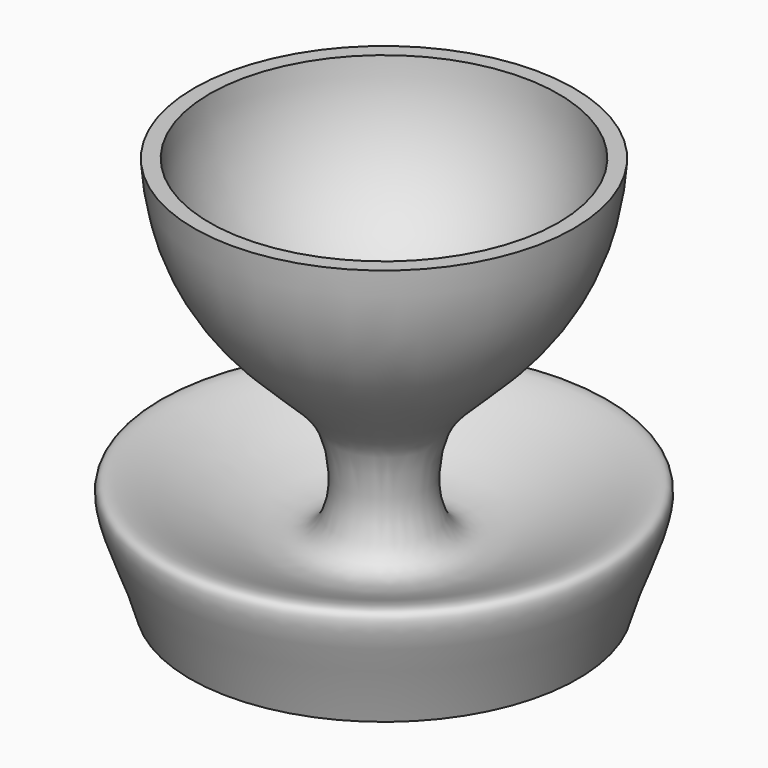
from build123d import *

# Parameters (mm, degrees)
F2_R = 5
F3_R = 3


with BuildPart() as f1:
    # F0 (on Front) → F1 (revolve)
    with BuildSketch(Plane.XZ):
        with BuildLine():
            ThreePointArc((-1.2180203755, -22.467007508), (-16.3348623877, -15.4732760195), (-22.5, 0))
            Line((-22.5, 0), (-24.5, 0))
            add(Edge.make_bspline(
                [(-24.5, 0), (-23.739777559, -13.6950002435), (-11.2830044037, -24.5647469092), (-4.8658456215, -31.2678632632), (-5.841536902, -50.1868893047), (-35.8610158663, -28.2577643873), (-26.3574018445, -45.4443305215), (-25, -51)],
                knots=[0, 0, 0, 0, 0.2663608368, 0.4191266938, 0.5820497943, 0.8077483959, 1, 1, 1, 1], degree=3))
            Line((-25, -51), (-1.2180203755, -51))
            Line((-1.2180203755, -51), (-1.2180203755, -22.467007508))
        make_face()
    revolve(axis=Axis((0, 0, -25.5), (0, 0, -1)))

    # F2
    f2_edges = [f1.edges().sort_by_distance(p)[0] for p in [
        (1.21802, 0, -22.467008),
    ]]
    fillet(f2_edges, radius=F2_R)

    # F3
    f3_edges = [f1.edges().sort_by_distance(p)[0] for p in [
        (1.21802, 0, -51),
    ]]
    fillet(f3_edges, radius=F3_R)


solid = f1.part
